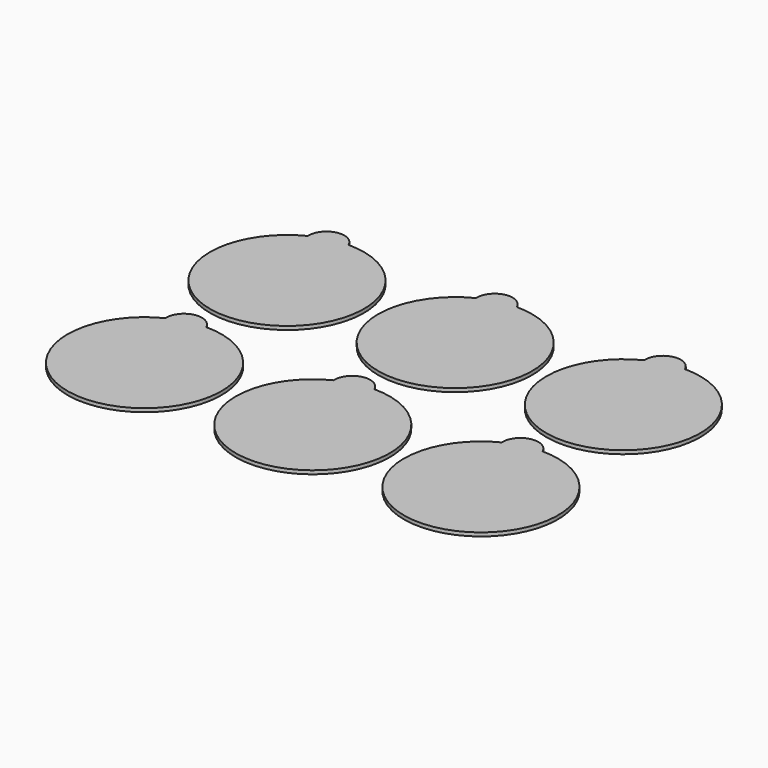
from build123d import *

# Parameters (mm, degrees)
F1_DEPTH = 1


with BuildPart() as f1:
    # F0 (on Top) → F1 (new body)
    with BuildSketch(Plane.XY):
        with BuildLine():
            ThreePointArc((0, 21.5), (-5.740869, 24.397196), (-9.587413, 19.244))
            ThreePointArc((-9.587413, 19.244), (4.924632, -20.928402), (0, 21.5))
        make_face()
        with BuildLine():
            ThreePointArc((0, 71.20502), (-5.740869, 74.102216), (-9.587413, 68.94902))
            ThreePointArc((-9.587413, 68.94902), (4.924632, 28.776618), (0, 71.20502))
        make_face()
        with BuildLine():
            ThreePointArc((46.96037, 71.20502), (41.219501, 74.102216), (37.372957, 68.94902))
            ThreePointArc((37.372957, 68.94902), (51.885002, 28.776618), (46.96037, 71.20502))
        make_face()
        with BuildLine():
            ThreePointArc((93.92074, 71.20502), (88.179871, 74.102216), (84.333327, 68.94902))
            ThreePointArc((84.333327, 68.94902), (98.845372, 28.776618), (93.92074, 71.20502))
        make_face()
        with BuildLine():
            ThreePointArc((46.96037, 21.5), (41.219501, 24.397196), (37.372957, 19.244))
            ThreePointArc((37.372957, 19.244), (51.885002, -20.928402), (46.96037, 21.5))
        make_face()
        with BuildLine():
            ThreePointArc((93.92074, 21.5), (88.179871, 24.397196), (84.333327, 19.244))
            ThreePointArc((84.333327, 19.244), (98.845372, -20.928402), (93.92074, 21.5))
        make_face()
    extrude(amount=F1_DEPTH)


solid = f1.part
